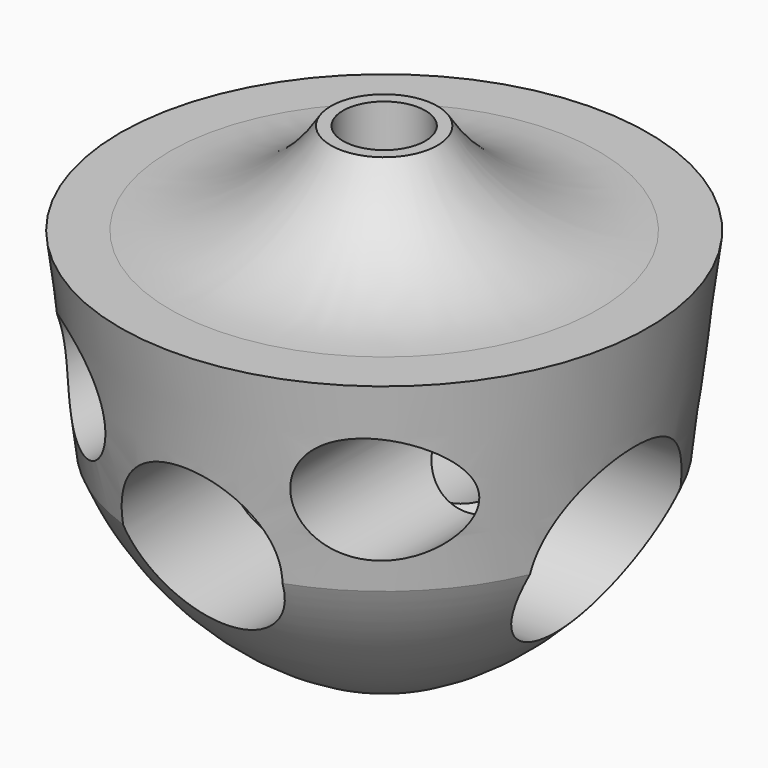
from build123d import *

# Parameters (mm, degrees)
F2_R           = 9.4975885004
F2_R_2         = 6.8164287753
F3_DEPTH       = 254
F3_DEPTH_BACK  = 254
F4_R           = 11.2575848979
F5_DEPTH       = 254
F5_DEPTH_BACK  = 254
F8_R           = 4.8895
F9_DEPTH       = 8.255
F9_DEPTH_BACK  = 82.55
F10_R          = 1.5875
F11_DEPTH      = 25.4
F11_DEPTH_BACK = 14.2875


with BuildPart() as f1:
    # F0 (on Front) → F1 (revolve)
    with BuildSketch(Plane.XZ):
        with BuildLine():
            Line((0, -46.99), (0, 0))
            Line((0, 0), (0, 10.922))
            Line((0, 10.922), (-6.3319914043, 10.9366187826))
            ThreePointArc((-6.3319914043, 10.9366187826), (-14.4425212832, 2.9271906048), (-25.4590175417, 0))
            Line((-25.4590175417, 0), (-31.3708260655, 0))
            Line((-31.3708260655, 0), (-28.5555762069, -22.9030231927))
            ThreePointArc((-28.5555762069, -22.9030231927), (-17.2042421331, -38.4158793683), (0, -46.99))
        make_face()
        with BuildLine():
            Line((0, -46.99), (0, 0))
            Line((0, 0), (0, 10.922))
            Line((0, 10.922), (-6.3319914043, 10.9366187826))
            ThreePointArc((-6.3319914043, 10.9366187826), (-14.4425212832, 2.9271906048), (-25.4590175417, 0))
            Line((-25.4590175417, 0), (-31.3708260655, 0))
            Line((-31.3708260655, 0), (-28.5555762069, -22.9030231927))
            ThreePointArc((-28.5555762069, -22.9030231927), (-17.2042421331, -38.4158793683), (0, -46.99))
        make_face()
    revolve(axis=Axis((0, 0, -23.495), (0, 0, -1)))

    # F2 (on Front) → F3 (cut, two sides)
    with BuildSketch(Plane.XZ) as f3_sk:
        with Locations((0, -22.1610423177)):
            Circle(F2_R)
        with Locations((17.8439598531, -12.6634538174)):
            Circle(F2_R_2)
        with Locations((-17.8439598531, -12.6634538174)):
            Circle(F2_R_2)
    extrude(amount=F3_DEPTH, mode=Mode.SUBTRACT)
    extrude(f3_sk.sketch, amount=-F3_DEPTH_BACK, mode=Mode.SUBTRACT)

    # F4 (on Right) → F5 (cut, two sides)
    with BuildSketch(Plane.YZ) as f5_sk:
        with Locations((0, -24.1756830364)):
            Circle(F4_R)
    extrude(amount=F5_DEPTH, mode=Mode.SUBTRACT)
    extrude(f5_sk.sketch, amount=-F5_DEPTH_BACK, mode=Mode.SUBTRACT)

    # F8 (on offset) → F9 (cut, two sides)
    with BuildSketch(Plane.XY.offset(10.922)) as f9_sk:
        Circle(F8_R)
    extrude(amount=-F9_DEPTH, mode=Mode.SUBTRACT)
    extrude(f9_sk.sketch, amount=F9_DEPTH_BACK, mode=Mode.SUBTRACT)

    # F10 (on offset) → F11 (cut, two sides)
    with BuildSketch(Plane.XY.offset(-46.99)) as f11_sk:
        Circle(F10_R)
    extrude(amount=F11_DEPTH, mode=Mode.SUBTRACT)
    extrude(f11_sk.sketch, amount=-F11_DEPTH_BACK, mode=Mode.SUBTRACT)


solid = f1.part
